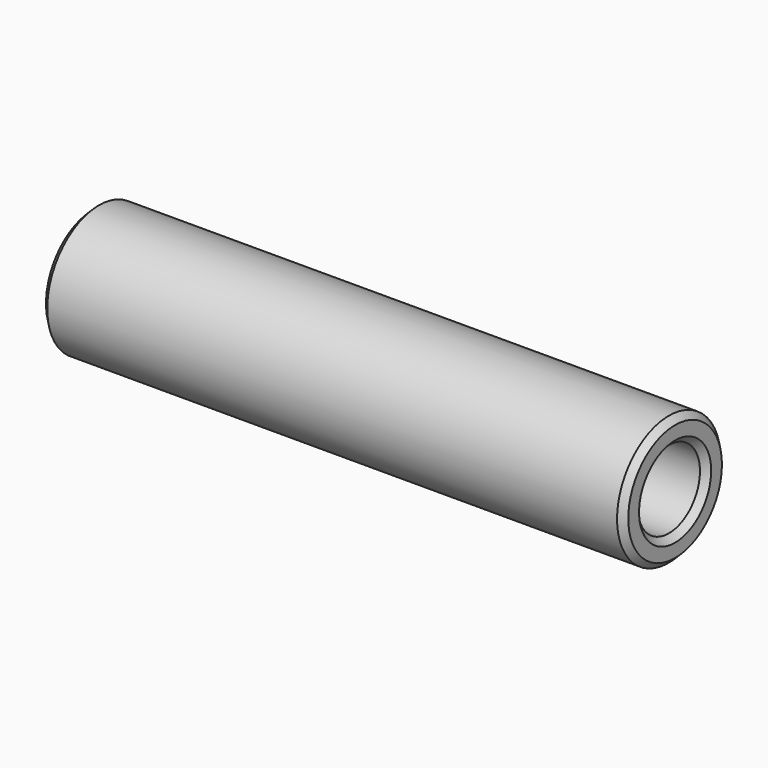
from build123d import *

# Parameters (mm, degrees)
F0_R     = 15.875
F0_R_2   = 9.525
F1_DEPTH = 142.748
F2_SIZE  = 1.524


with BuildPart() as f1:
    # F0 (on Right) → F1 (new body)
    with BuildSketch(Plane.YZ):
        Circle(F0_R)
        Circle(F0_R_2, mode=Mode.SUBTRACT)
    extrude(amount=-F1_DEPTH)

    # F2
    f2_edges = [f1.edges().sort_by_distance(p)[0] for p in [
        (0, -15.875, 0),
        (-142.748, -15.875, 0),
        (-142.748, -9.525, 0),
        (0, -9.525, 0),
    ]]
    chamfer(f2_edges, length=F2_SIZE)


solid = f1.part
